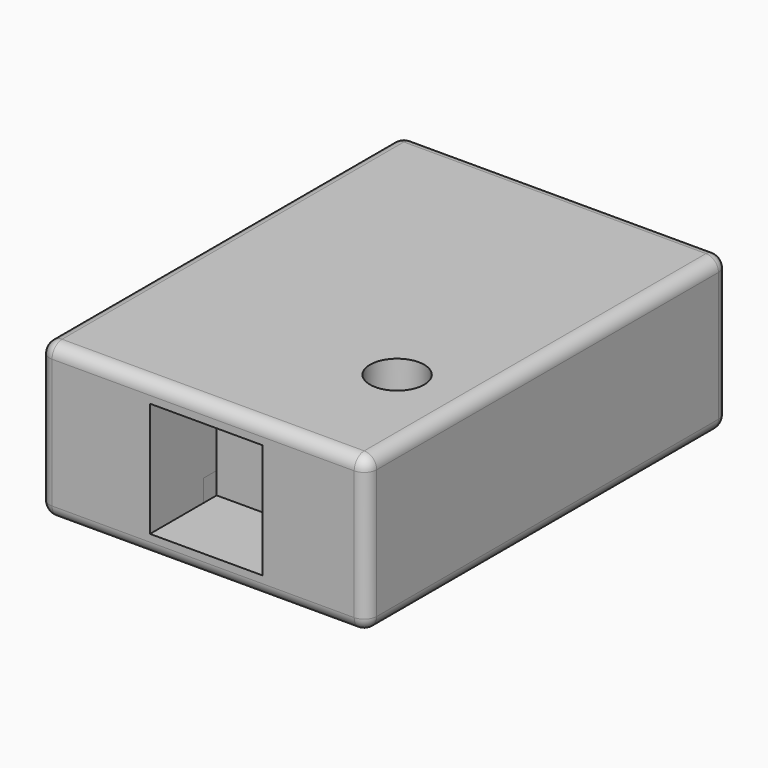
from build123d import *

# Parameters (mm, degrees)
SKETCH001_R       = 0.05
EXTRUDE001_DEPTH  = 2
BOX017_W          = 21
BOX017_H          = 13.5
BOX017_DEPTH      = 5
FILLET006_R       = 1
BOX007_W          = 21
BOX007_H          = 13.5
BOX007_DEPTH      = 10
FILLET004_R       = 1
BOX006_W          = 16.5
BOX006_H          = 10
BOX006_DEPTH      = 13.25
BOX005_W          = 31
BOX005_H          = 27
BOX005_DEPTH      = 25
CYLINDER004_R     = 6.5
CYLINDER004_DEPTH = 10
BOX014_W          = 27
BOX014_H          = 20
BOX014_DEPTH      = 27.5
BOX013_W          = 78.5
BOX013_H          = 108.5
BOX013_DEPTH      = 37
FILLET003_R       = 3
BOX018_W          = 20.8
BOX018_H          = 13.3
BOX018_DEPTH      = 5
FILLET007_R       = 1
BOX016_W          = 20.8
BOX016_H          = 13.3
BOX016_DEPTH      = 10
FILLET005_R       = 1


with BuildPart() as extrude001:
    # Sketch001 → Extrude001 (new body)
    with BuildSketch(Plane(origin=(0, 0, 0), x_dir=(1, 0, 0), z_dir=(0, 0, -1))):
        with BuildLine():
            ThreePointArc((10.5, -19.625), (8.625, -21.5), (10.5, -23.375))
            Line((10.5, -23.375), (13.04, -23.375))
            ThreePointArc((13.04, -23.375), (15.998193, -25.004413), (18.956385, -23.375))
            Line((18.956385, -23.375), (21.5, -23.375))
            ThreePointArc((21.5, -23.375), (23.375, -21.5), (21.5, -19.625))
            Line((21.5, -19.625), (18.955398, -19.625))
            ThreePointArc((18.955398, -19.625), (16, -18), (13.044602, -19.625))
            Line((13.044602, -19.625), (10.5, -19.625))
        make_face()
        with Locations((16, -21.5)):
            Circle(SKETCH001_R, mode=Mode.SUBTRACT)
        with BuildLine():
            ThreePointArc((55.25, -75.625), (53.375, -77.5), (55.25, -79.375))
            Line((55.25, -79.375), (57.794602, -79.375))
            ThreePointArc((57.794602, -79.375), (60.752301, -81.003632), (63.71, -79.375))
            Line((63.71, -79.375), (66.25, -79.375))
            ThreePointArc((66.25, -79.375), (68.125, -77.5), (66.25, -75.625))
            Line((66.25, -75.625), (63.705398, -75.625))
            ThreePointArc((63.705398, -75.625), (60.75, -74), (57.794602, -75.625))
            Line((57.794602, -75.625), (55.25, -75.625))
        make_face()
        with Locations((60.75, -77.5)):
            Circle(SKETCH001_R, mode=Mode.SUBTRACT)
    extrude(amount=EXTRUDE001_DEPTH)


with BuildPart() as extrude001_1:
    # Extrude001 placement: moved
    add(extrude001.part.moved(Location((0, 0, 2))))


with BuildPart() as key_hole001:
    # Box017 → Box017 (new body)
    with BuildSketch(Plane(origin=(5.5, 13.5, 0), x_dir=(1, 0, 0), z_dir=(0, 0, 1))):
        with Locations((10.5, 6.75)):
            Rectangle(BOX017_W, BOX017_H)
    extrude(amount=BOX017_DEPTH)

    # Fillet006
    fillet006_edges = [key_hole001.edges().sort_by_distance(p)[0] for p in [
        (5.5, 13.5, 2.5),
        (5.5, 27, 2.5),
        (26.5, 13.5, 2.5),
        (26.5, 27, 2.5),
    ]]
    fillet(fillet006_edges, radius=FILLET006_R)


with BuildPart() as key_hole001_1:
    # Fillet006 placement: moved
    add(key_hole001.part.moved(Location((45, 57.75, 0))))


with BuildPart() as key_hole:
    # Box007 → Box007 (new body)
    with BuildSketch(Plane(origin=(5.5, 15, 0), x_dir=(1, 0, 0), z_dir=(0, 0, 1))):
        with Locations((10.5, 6.75)):
            Rectangle(BOX007_W, BOX007_H)
    extrude(amount=BOX007_DEPTH)

    # Fillet004
    fillet004_edges = [key_hole.edges().sort_by_distance(p)[0] for p in [
        (5.5, 15, 5),
        (5.5, 28.5, 5),
        (26.5, 15, 5),
        (26.5, 28.5, 5),
    ]]
    fillet(fillet004_edges, radius=FILLET004_R)


with BuildPart() as obj1:
    # Box006 → Box006 (new body)
    with BuildSketch(Plane(origin=(11.25, 101, 14.8), x_dir=(1, 0, 0), z_dir=(0, 0, 1))):
        with Locations((8.25, 5)):
            Rectangle(BOX006_W, BOX006_H)
    extrude(amount=BOX006_DEPTH)


with BuildPart() as cube009:
    # Box005 → Box005 (new body)
    with BuildSketch(Plane(origin=(37.5, 83.5, 6), x_dir=(1, 0, 0), z_dir=(0, 0, 1))):
        with Locations((15.5, 13.5)):
            Rectangle(BOX005_W, BOX005_H)
    extrude(amount=BOX005_DEPTH)


with BuildPart() as cylinder004:
    # Cylinder004 → Cylinder004 (new body)
    with BuildSketch(Plane(origin=(61, 31, 27), x_dir=(1, 0, 0), z_dir=(0, 0, 1))):
        Circle(CYLINDER004_R)
    extrude(amount=CYLINDER004_DEPTH)


with BuildPart() as cube001:
    # Box014 → Box014 (new body)
    with BuildSketch(Plane(origin=(26.5, 0, 4.75), x_dir=(1, 0, 0), z_dir=(0, 0, 1))):
        with Locations((13.5, 10)):
            Rectangle(BOX014_W, BOX014_H)
    extrude(amount=BOX014_DEPTH)


with BuildPart() as hole2:
    # Box013 → Box013 (new body)
    with BuildSketch(Plane.XY):
        with Locations((39.25, 54.25)):
            Rectangle(BOX013_W, BOX013_H)
    extrude(amount=BOX013_DEPTH)

    # Cut001: cut Cube001
    add(cube001.part, mode=Mode.SUBTRACT)

    # Cut002: cut Cylinder004
    add(cylinder004.part, mode=Mode.SUBTRACT)

    # Cut006: cut Cube009
    add(cube009.part, mode=Mode.SUBTRACT)

    # Cut007: cut obj1
    add(obj1.part, mode=Mode.SUBTRACT)

    # Fillet003
    fillet003_edges = [hole2.edges().sort_by_distance(p)[0] for p in [
        (0, 0, 18.5),
        (0, 54.25, 37),
        (0, 108.5, 18.5),
        (0, 54.25, 0),
        (39.25, 0, 0),
        (78.5, 0, 18.5),
        (39.25, 0, 37),
        (39.25, 108.5, 37),
        (78.5, 54.25, 37),
        (39.25, 108.5, 0),
        (78.5, 108.5, 18.5),
        (78.5, 54.25, 0),
    ]]
    fillet(fillet003_edges, radius=FILLET003_R)

    # Cut008: cut Key_hole
    add(key_hole.part, mode=Mode.SUBTRACT)

    # Cut009: cut Key_hole001
    add(key_hole001_1.part, mode=Mode.SUBTRACT)


with BuildPart() as key_hole002:
    # Box018 → Box018 (new body)
    with BuildSketch(Plane(origin=(5.5, 13.5, 0), x_dir=(1, 0, 0), z_dir=(0, 0, 1))):
        with Locations((10.4, 6.65)):
            Rectangle(BOX018_W, BOX018_H)
    extrude(amount=BOX018_DEPTH)

    # Fillet007
    fillet007_edges = [key_hole002.edges().sort_by_distance(p)[0] for p in [
        (5.5, 13.5, 2.5),
        (5.5, 26.8, 2.5),
        (26.3, 13.5, 2.5),
        (26.3, 26.8, 2.5),
    ]]
    fillet(fillet007_edges, radius=FILLET007_R)


with BuildPart() as key_hole002_1:
    # Fillet007 placement: moved
    add(key_hole002.part.moved(Location((45.1, 57.85, 0))))


with BuildPart() as cut010:
    # Box016 → Box016 (new body)
    with BuildSketch(Plane(origin=(5.6, 15.1, 0), x_dir=(1, 0, 0), z_dir=(0, 0, 1))):
        with Locations((10.4, 6.65)):
            Rectangle(BOX016_W, BOX016_H)
    extrude(amount=BOX016_DEPTH)

    # Fillet005
    fillet005_edges = [cut010.edges().sort_by_distance(p)[0] for p in [
        (5.6, 15.1, 5),
        (5.6, 28.4, 5),
        (26.4, 15.1, 5),
        (26.4, 28.4, 5),
    ]]
    fillet(fillet005_edges, radius=FILLET005_R)

    # Fusion007: union Hole2, Key_hole002
    add(hole2.part)
    add(key_hole002_1.part)

    # Cut010: cut Extrude001
    add(extrude001_1.part, mode=Mode.SUBTRACT)


solid = cut010.part
